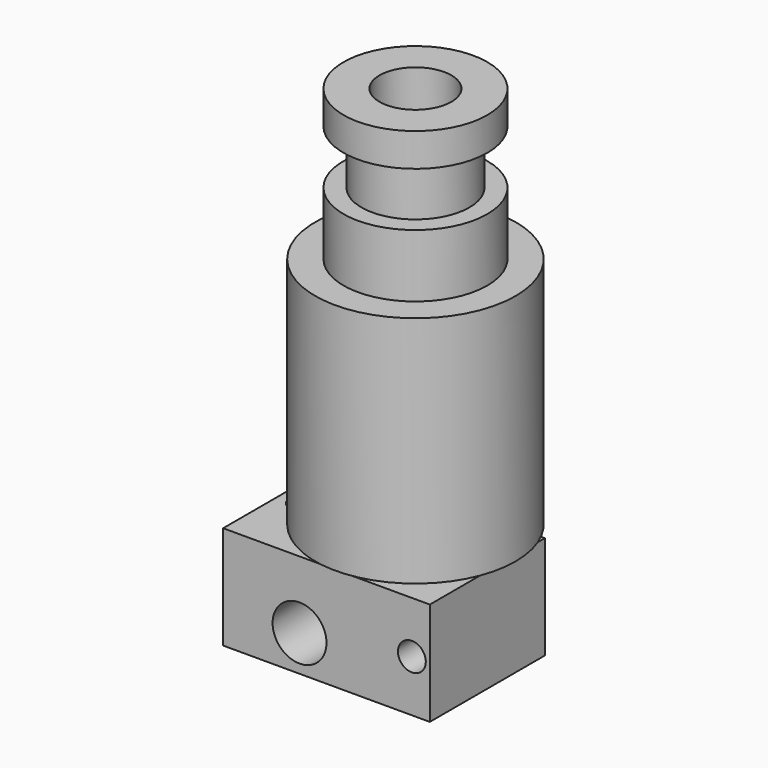
from build123d import *

# Parameters (mm, degrees)
F3_W     = 23
F3_H     = 16
F3_R     = 1.5
F3_R_2   = 4
F4_DEPTH = 11.5
F5_R     = 3
F5_R_2   = 1.55
F6_DEPTH = 19.151


with BuildPart() as f1:
    # F0 (on Front) → F1 (revolve)
    with BuildSketch(Plane.XZ):
        Polygon((4, -6.5), (2.1, -6.5), (2.1, -42.7), (11.15, -42.7), (11.15, -16.7), (8, -16.7), (8, -9.7), (6, -9.7), (6, -3.7), (8, -3.7), (8, 0), (4, 0), align=None)
    revolve(axis=Axis((0, 0, -14), (0, 0, -1)))


with BuildPart() as f4:
    # F3 (on offset) → F4 (new body)
    with BuildSketch(Plane(origin=(0, 0, -44.7), x_dir=(1, 0, 0), z_dir=(0, 0, -1))):
        Rectangle(F3_W, F3_H)
        with Locations((-9, 0)):
            Circle(F3_R, mode=Mode.SUBTRACT)
        with Locations((3.5, 0)):
            Circle(F3_R_2, mode=Mode.SUBTRACT)
    extrude(amount=F4_DEPTH)

    # F5 (on face) → F6 (cut, through all)
    with BuildSketch(Plane(origin=(0, 8, 0), x_dir=(-1, 0, 0), z_dir=(0, 1, 0))):
        with Locations((3, -52.2)):
            Circle(F5_R)
        with Locations((-9.5, -50.45)):
            Circle(F5_R_2)
    extrude(amount=-F6_DEPTH, mode=Mode.SUBTRACT)


with BuildPart() as f4_1:
    # F7: moved
    add(f4.part.moved(Location((-3.5, 0, 0))))


solid = Compound([f1.part, f4_1.part])
